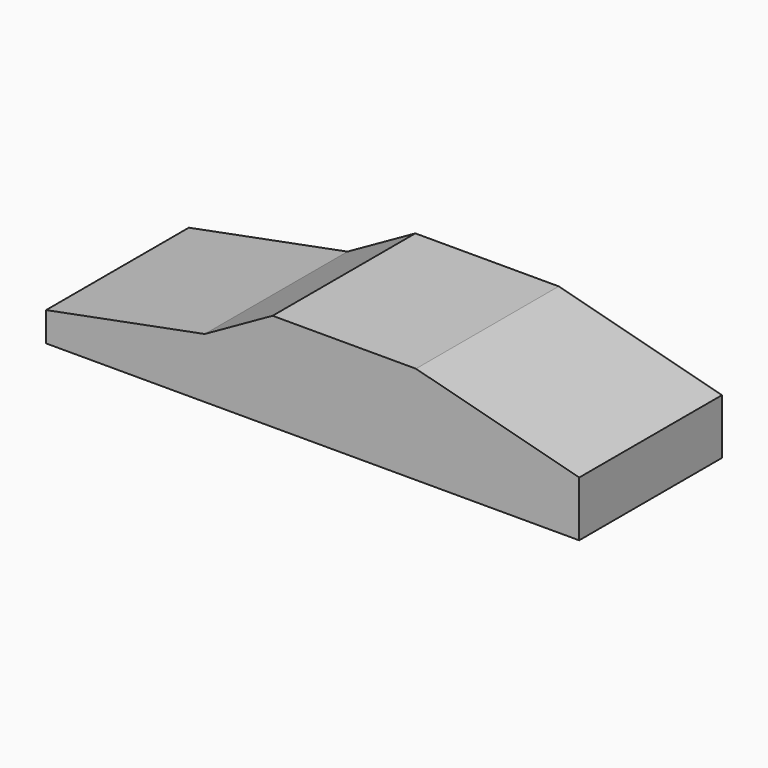
from build123d import *

# Parameters (mm, degrees)
F1_DEPTH      = 25.4
F1_DEPTH_BACK = 25.4


with BuildPart() as f1:
    # F0 (on Front) → F1 (new body, two sides)
    with BuildSketch(Plane.XZ) as f1_sk:
        Polygon((-66.331223, 8.359254), (-66.331223, 0), (85.438088, 0), (85.438088, 15.741451), (38.973667, 27.900366), (-1.845549, 27.900366), (-21.16954, 17.044192), align=None)
    extrude(amount=F1_DEPTH)
    extrude(f1_sk.sketch, amount=-F1_DEPTH_BACK)


solid = f1.part
